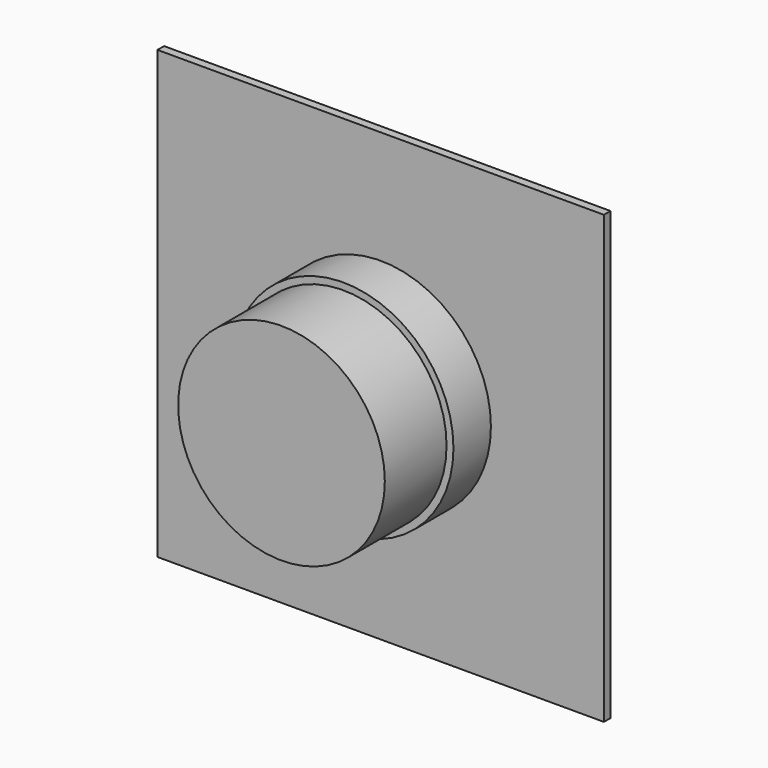
from build123d import *

# Parameters (mm, degrees)
BOX035_W          = 162
BOX035_H          = 3
BOX035_DEPTH      = 162
CYLINDER010_R     = 30
CYLINDER010_DEPTH = 31
CYLINDER011_R     = 37.5
CYLINDER011_DEPTH = 46
CYLINDER012_R     = 40
CYLINDER012_DEPTH = 18


with BuildPart() as cube030:
    # Box035 → Box035 (new body)
    with BuildSketch(Plane.XY):
        with Locations((81, 1.5)):
            Rectangle(BOX035_W, BOX035_H)
    extrude(amount=BOX035_DEPTH)


with BuildPart() as cylinder010:
    # Cylinder010 → Cylinder010 (new body)
    with BuildSketch(Plane(origin=(81, 2, 81), x_dir=(1, 0, 0), z_dir=(0, 1, 0))):
        Circle(CYLINDER010_R)
    extrude(amount=CYLINDER010_DEPTH)


with BuildPart() as cylinder011:
    # Cylinder011 → Cylinder011 (new body)
    with BuildSketch(Plane(origin=(81, -45, 81), x_dir=(1, 0, 0), z_dir=(0, 1, 0))):
        Circle(CYLINDER011_R)
    extrude(amount=CYLINDER011_DEPTH)


with BuildPart() as f_240mm:
    # Cylinder012 → Cylinder012 (new body)
    with BuildSketch(Plane(origin=(81, -17, 81), x_dir=(1, 0, 0), z_dir=(0, 1, 0))):
        Circle(CYLINDER012_R)
    extrude(amount=CYLINDER012_DEPTH)

    # Fusion008: union Cube030, Cylinder010, Cylinder011
    add(cube030.part)
    add(cylinder010.part)
    add(cylinder011.part)


with BuildPart() as f_240mm_1:
    # Fusion008 placement: moved
    add(f_240mm.part.moved(Location((4.5, -2, 3))))


solid = f_240mm_1.part
